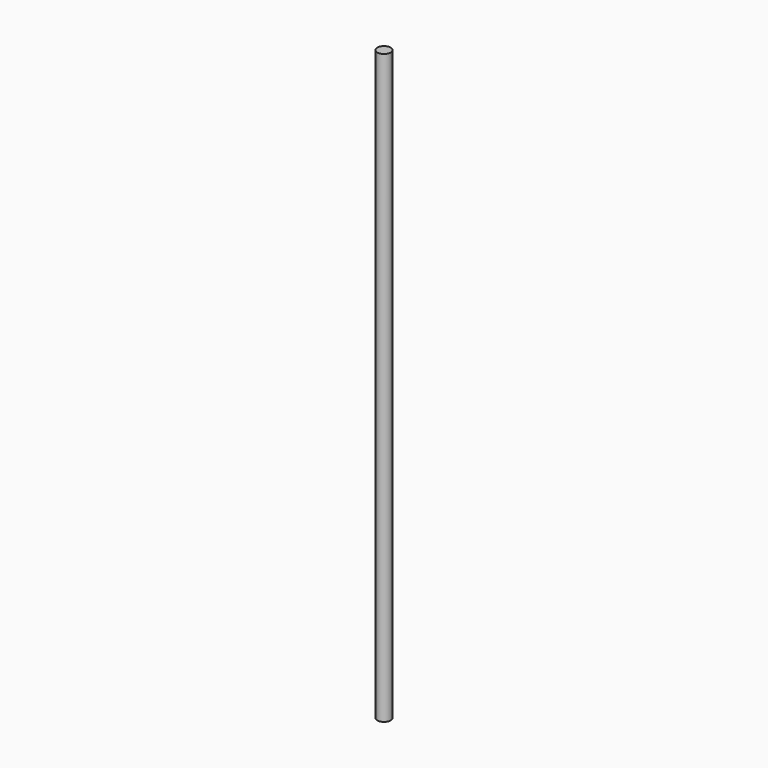
from build123d import *

# Parameters (mm, degrees)
CYLINDER_R     = 4
CYLINDER_DEPTH = 350


with BuildPart() as part:
    # Cylinder → Cylinder (new body)
    with BuildSketch(Plane.XY):
        Circle(CYLINDER_R)
    extrude(amount=CYLINDER_DEPTH)


solid = part.part
